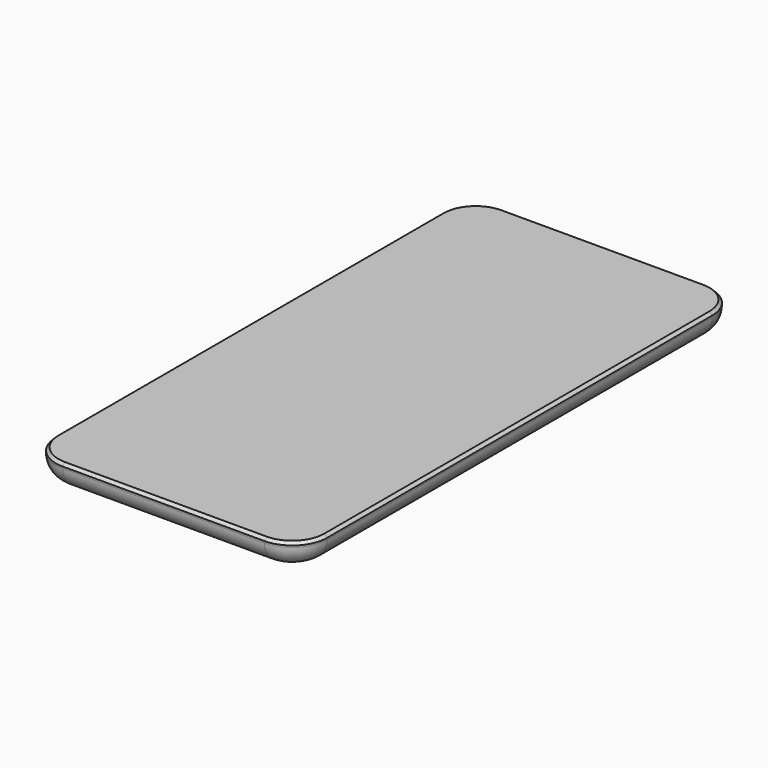
from build123d import *

# Parameters (mm, degrees)
F1_DEPTH = 7.3
F2_R     = 6
F3_SIZE  = 0.8


with BuildPart() as f1:
    # F0 (on Top) → F1 (new body)
    with BuildSketch(Plane.XY):
        with BuildLine():
            Line((28.95, 79.1), (-28.95, 79.1))
            ThreePointArc((-28.95, 79.1), (-36.021068, 76.171068), (-38.95, 69.1))
            Line((-38.95, 69.1), (-38.95, -69.1))
            ThreePointArc((-38.95, -69.1), (-36.021068, -76.171068), (-28.95, -79.1))
            Line((-28.95, -79.1), (28.95, -79.1))
            ThreePointArc((28.95, -79.1), (36.021068, -76.171068), (38.95, -69.1))
            Line((38.95, -69.1), (38.95, 69.1))
            ThreePointArc((38.95, 69.1), (36.021068, 76.171068), (28.95, 79.1))
        make_face()
    extrude(amount=F1_DEPTH)

    # F2
    f2_edges = [f1.edges().sort_by_distance(p)[0] for p in [
        (36.021068, 76.171068, 0),
        (0, 79.1, 0),
        (-36.021068, 76.171068, 0),
        (-38.95, 0, 0),
        (-36.021068, -76.171068, 0),
        (0, -79.1, 0),
        (36.021068, -76.171068, 0),
        (38.95, 0, 0),
    ]]
    fillet(f2_edges, radius=F2_R)

    # F3
    f3_edges = [f1.edges().sort_by_distance(p)[0] for p in [
        (36.021068, 76.171068, 7.3),
        (0, 79.1, 7.3),
        (-36.021068, 76.171068, 7.3),
        (-38.95, 0, 7.3),
        (-36.021068, -76.171068, 7.3),
        (0, -79.1, 7.3),
        (36.021068, -76.171068, 7.3),
        (38.95, 0, 7.3),
    ]]
    chamfer(f3_edges, length=F3_SIZE)


solid = f1.part
